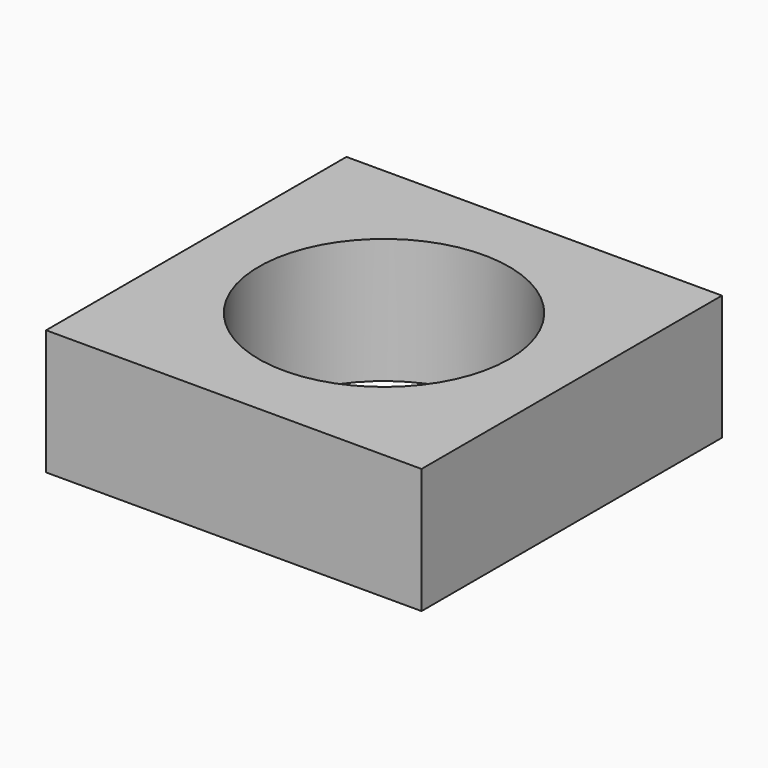
from build123d import *

# Parameters (mm, degrees)
SKETCH_W  = 30
SKETCH_H  = 30
SKETCH_R  = 10
PAD_DEPTH = 10


with BuildPart() as part:
    # Sketch → Pad (new body)
    with BuildSketch(Plane.XY):
        Rectangle(SKETCH_W, SKETCH_H)
        Circle(SKETCH_R, mode=Mode.SUBTRACT)
    extrude(amount=PAD_DEPTH)


solid = part.part
